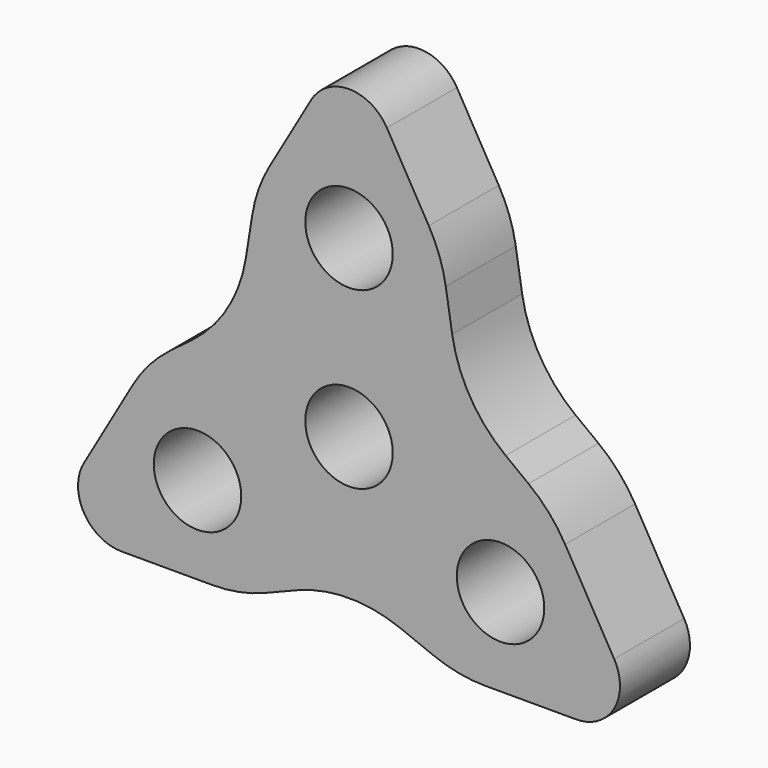
from build123d import *

# Parameters (mm, degrees)
F0_R     = 12.7
F1_DEPTH = 25.4
F3_DEPTH = 25.4
F4_R     = 12.7
F5_R     = 40.64


with BuildPart() as f1:
    # F0 (on Front) → F1 (new body)
    with BuildSketch(Plane.XZ):
        Polygon((0, 101.6), (-87.9881810245, -50.8), (87.9881810245, -50.8), align=None)
        with Locations((-43.9940905122, -25.4)):
            Circle(F0_R, mode=Mode.SUBTRACT)
        Circle(F0_R, mode=Mode.SUBTRACT)
        with Locations((43.9940905122, -25.4)):
            Circle(F0_R, mode=Mode.SUBTRACT)
        with Locations((0, 50.8)):
            Circle(F0_R, mode=Mode.SUBTRACT)
    extrude(amount=F1_DEPTH)

    # F2 (on face) → F3 (cut)
    with BuildSketch(Plane.XZ.offset(25.4)):
        Polygon((-32.5348633552, 19.8479636515), (-26.9087873497, 54.9926131403), (-58.6587873497, 0), align=None)
        Polygon((58.6587873497, 0), (26.9087873497, 54.9926131403), (32.5348633552, 19.8479636515), align=None)
        Polygon((0, -38.1), (-31.75, -50.8), (31.75, -50.8), align=None)
    extrude(amount=-F3_DEPTH, mode=Mode.SUBTRACT)

    # F4
    f4_edges = [f1.edges().sort_by_distance(p)[0] for p in [
        (0, -12.7, 101.6),
        (-87.988181, -12.7, -50.8),
        (87.988181, -12.7, -50.8),
    ]]
    fillet(f4_edges, radius=F4_R)

    # F5
    f5_edges = [f1.edges().sort_by_distance(p)[0] for p in [
        (-26.908787, -12.7, 54.992613),
        (-32.534863, -12.7, 19.847964),
        (-58.658787, -12.7, 0),
        (26.908787, -12.7, 54.992613),
        (32.534863, -12.7, 19.847964),
        (58.658787, -12.7, 0),
        (31.75, -12.7, -50.8),
        (0, -12.7, -38.1),
        (-31.75, -12.7, -50.8),
    ]]
    fillet(f5_edges, radius=F5_R)


solid = f1.part
